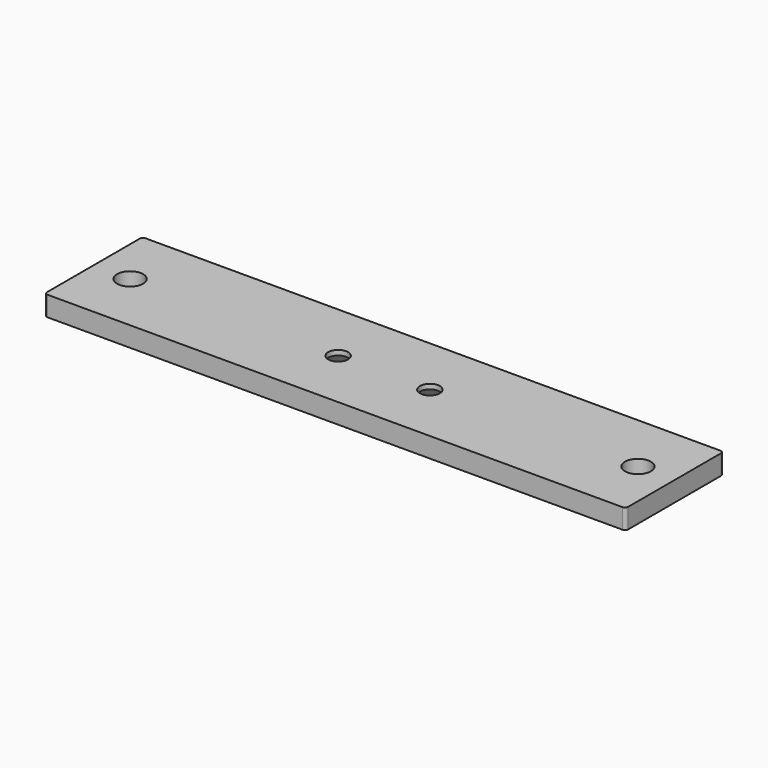
from build123d import *

# Parameters (mm, degrees)
F1_DEPTH       = 6.5
F2_D           = 8.5
F3_D           = 8.5
F4_D           = 6.5
F4_CSINK_D     = 15
F4_CSINK_ANGLE = 82
F5_D           = 6.5
F5_CSINK_D     = 15
F5_CSINK_ANGLE = 82


with BuildPart() as f1:
    # F0 (on Top) → F1 (new body)
    with BuildSketch(Plane.XY):
        with BuildLine():
            Line((94, 20), (-94, 20))
            ThreePointArc((-94, 20), (-94.707107, 19.707107), (-95, 19))
            Line((-95, 19), (-95, -19))
            ThreePointArc((-95, -19), (-94.707107, -19.707107), (-94, -20))
            Line((-94, -20), (94, -20))
            ThreePointArc((94, -20), (94.707107, -19.707107), (95, -19))
            Line((95, -19), (95, 19))
            ThreePointArc((95, 19), (94.707107, 19.707107), (94, 20))
        make_face()
    extrude(amount=F1_DEPTH)

    # F2 (through all)
    with Locations(Plane(origin=(0, 0, 0), x_dir=(1, 0, 0), z_dir=(0, 0, -1))):
        with Locations((83, 0)):
            Hole(F2_D / 2)

    # F3 (through all)
    with Locations(Plane(origin=(0, 0, 0), x_dir=(1, 0, 0), z_dir=(0, 0, -1))):
        with Locations((-83, 0)):
            Hole(F3_D / 2)

    # F4 (through all)
    with Locations(Plane(origin=(0, 0, 0), x_dir=(1, 0, 0), z_dir=(0, 0, -1))):
        with Locations((15, 0)):
            CounterSinkHole(F4_D / 2, F4_CSINK_D / 2, counter_sink_angle=F4_CSINK_ANGLE)

    # F5 (through all)
    with Locations(Plane(origin=(0, 0, 0), x_dir=(1, 0, 0), z_dir=(0, 0, -1))):
        with Locations((-15, 0)):
            CounterSinkHole(F5_D / 2, F5_CSINK_D / 2, counter_sink_angle=F5_CSINK_ANGLE)


solid = f1.part
